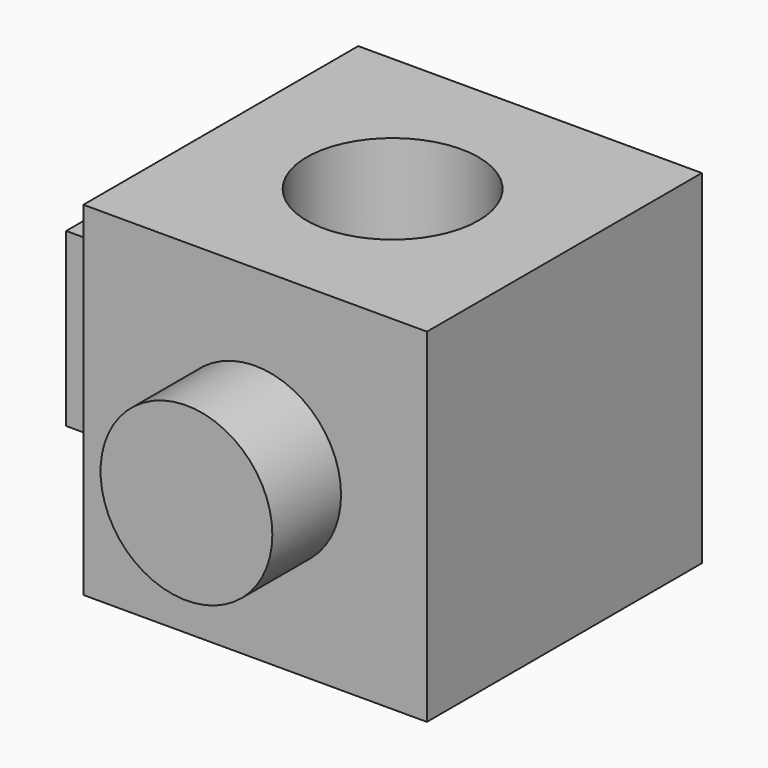
from build123d import *

# Parameters (mm, degrees)
F0_W     = 50.8
F0_H     = 50.8
F1_DEPTH = 50.8
F2_R     = 12.7
F3_DEPTH = 12.7
F4_W     = 25.4
F4_H     = 25.4
F5_DEPTH = 12.7
F6_R     = 12.7
F7_DEPTH = 50.8


with BuildPart() as f1:
    # F0 (on Front) → F1 (new body)
    with BuildSketch(Plane.XZ):
        with Locations((-1.721621, 4.967852)):
            Rectangle(F0_W, F0_H)
    extrude(amount=F1_DEPTH)

    # F2 (on face) → F3 (join)
    with BuildSketch(Plane.XZ.offset(50.8)):
        with Locations((-1.721621, 4.967852)):
            Circle(F2_R)
    extrude(amount=F3_DEPTH)

    # F4 (on face) → F5 (join)
    with BuildSketch(Plane(origin=(-27.121621, 0, 0), x_dir=(0, -1, 0), z_dir=(-1, 0, 0))):
        with Locations((25.4, 4.967852)):
            Rectangle(F4_W, F4_H)
    extrude(amount=F5_DEPTH)

    # F6 (on face) → F7 (cut)
    with BuildSketch(Plane.XY.offset(30.367852)):
        with Locations((-1.721621, -25.4)):
            Circle(F6_R)
    extrude(amount=-F7_DEPTH, mode=Mode.SUBTRACT)


solid = f1.part
